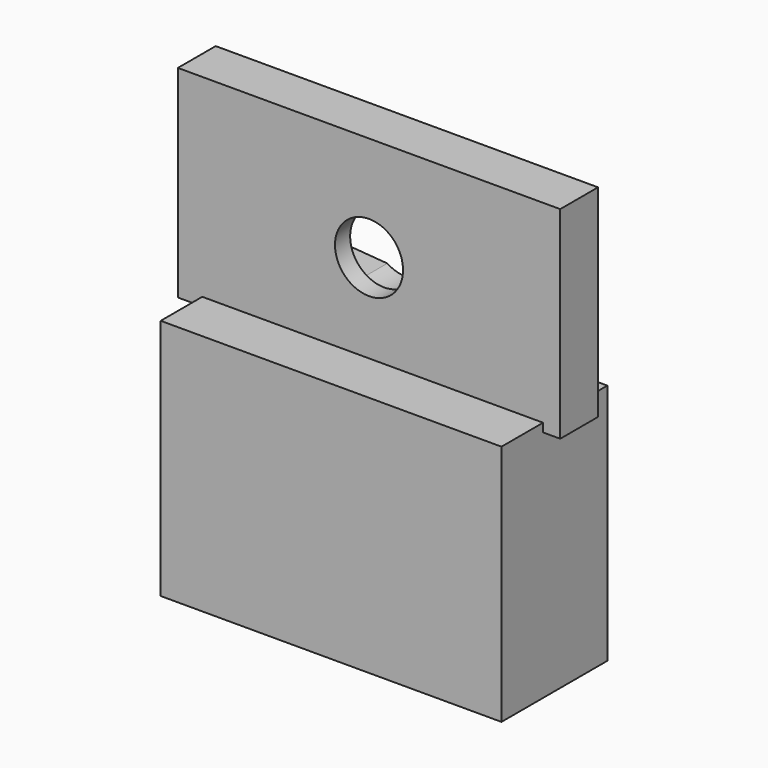
from build123d import *

# Parameters (mm, degrees)
CYLINDER023_R               = 3.6
CYLINDER023_DEPTH           = 8
CYLINDER023_ROLL_ANGLE      = 89.941329
CYLINDER023_PITCH_ANGLE     = 3.606623
CYLINDER023_PLACEMENT_ANGLE = -0.059115
PAD031_DEPTH                = 3
SKETCH032_W                 = 40.456886
SKETCH032_H                 = 21.390591
PAD032_DEPTH                = 5
CYLINDER024_R               = 1.1
CYLINDER024_DEPTH           = 10
CYLINDER025_R               = 1.1
CYLINDER025_DEPTH           = 10
SKETCH035_W                 = 23.3
SKETCH035_H                 = 12.5
PAD035_DEPTH                = 19.5
SKETCH033_W                 = 32.5
SKETCH033_H                 = 12.5
PAD034_DEPTH                = 4.5
SKETCH034_W                 = 36.061928
SKETCH034_H                 = 25.639376
PAD033_DEPTH                = 14
CUT030_PLACEMENT_ANGLE      = 90


with BuildPart() as cylinder023:
    # Cylinder023 → Cylinder023 (new body)
    with BuildSketch(Plane.XY):
        Circle(CYLINDER023_R)
    extrude(amount=CYLINDER023_DEPTH)


with BuildPart() as cylinder023_1:
    # Cylinder023 roll: moved
    add(cylinder023.part.rotate(Axis((0, 0, 0), (1, 0, 0)), CYLINDER023_ROLL_ANGLE))


with BuildPart() as cylinder023_2:
    # Cylinder023 pitch: moved
    add(cylinder023_1.part.rotate(Axis((0, 0, 0), (0, 1, 0)), CYLINDER023_PITCH_ANGLE))


with BuildPart() as cylinder023_3:
    # Cylinder023 placement: moved
    add(cylinder023_2.part.moved(Location((21, 34, 6.3))).rotate(Axis((21, 34, 6.3), (0, 0, 1)), CYLINDER023_PLACEMENT_ANGLE))


with BuildPart() as obj1:
    # Sketch031 → Pad031 (new body)
    with BuildSketch(Plane.XZ):
        with BuildLine():
            ThreePointArc((-18.00002, 2), (-20, 0), (-18.00002, -2))
            Line((-18.00002, -2), (-2.073587, -3.25))
            ThreePointArc((-2.073587, -3.25), (0, -3.854383), (2.073587, -3.25))
            Line((2.073587, -3.25), (18.00002, -2))
            ThreePointArc((18.00002, -2), (20, 0), (18.00002, 2))
            Line((2.073587, 3.25), (18.00002, 2))
            ThreePointArc((2.073587, 3.25), (0, 3.862152), (-2.073587, 3.25))
            Line((-18.00002, 2), (-2.073587, 3.25))
        make_face()
    extrude(amount=PAD031_DEPTH)


with BuildPart() as obj1_1:
    # Body034 placement: moved
    add(obj1.part.moved(Location((21, 35, 6.3))))

    # Fusion026: union Cylinder023
    add(cylinder023_3.part)


with BuildPart() as obj1_2:
    # Fusion026 placement: moved
    add(obj1_1.part.moved(Location((-21, -35, 4))))


with BuildPart() as cut027:
    # Sketch032 → Pad032 (new body)
    with BuildSketch(Plane.XZ):
        with Locations((0, 10.695296)):
            Rectangle(SKETCH032_W, SKETCH032_H)
    extrude(amount=PAD032_DEPTH)

    # Cut027: cut obj1
    add(obj1_2.part, mode=Mode.SUBTRACT)


with BuildPart() as cylinder024:
    # Cylinder024 → Cylinder024 (new body)
    with BuildSketch(Plane(origin=(30, 22, 6), x_dir=(1, 0, 0), z_dir=(0, -1, 0))):
        Circle(CYLINDER024_R)
    extrude(amount=CYLINDER024_DEPTH)


with BuildPart() as obj2:
    # Cylinder025 → Cylinder025 (new body)
    with BuildSketch(Plane(origin=(2.2, 22, 6), x_dir=(1, 0, 0), z_dir=(0, -1, 0))):
        Circle(CYLINDER025_R)
    extrude(amount=CYLINDER025_DEPTH)

    # Fusion027: union Cylinder024
    add(cylinder024.part)


with BuildPart() as cortecuerpo005:
    # Sketch035 → Pad035 (new body)
    with BuildSketch(Plane.XZ):
        with Locations((16.4, 6.25)):
            Rectangle(SKETCH035_W, SKETCH035_H)
    extrude(amount=PAD035_DEPTH)


with BuildPart() as cortecuerpo005_1:
    # Body038 placement: moved
    add(cortecuerpo005.part.moved(Location((0, 19, 0))))


with BuildPart() as cortetornillos005:
    # Sketch033 → Pad034 (new body)
    with BuildSketch(Plane.XZ):
        with Locations((16.25, 6.25)):
            Rectangle(SKETCH033_W, SKETCH033_H)
    extrude(amount=PAD034_DEPTH)


with BuildPart() as cortetornillos005_1:
    # Body037 placement: moved
    add(cortetornillos005.part.moved(Location((0, 23, 0))))


with BuildPart() as fusion028:
    # Sketch034 → Pad033 (new body)
    with BuildSketch(Plane.XY):
        with Locations((15.881367, 9.413649)):
            Rectangle(SKETCH034_W, SKETCH034_H)
    extrude(amount=PAD033_DEPTH)


with BuildPart() as fusion028_1:
    # Body036 placement: moved
    add(fusion028.part.moved(Location((0, 0, -1))))

    # Cut028: cut CorteTornillos005
    add(cortetornillos005_1.part, mode=Mode.SUBTRACT)

    # Cut029: cut CorteCuerpo005
    add(cortecuerpo005_1.part, mode=Mode.SUBTRACT)

    # Cut030: cut obj2
    add(obj2.part, mode=Mode.SUBTRACT)


with BuildPart() as fusion028_2:
    # Cut030 placement: moved
    add(fusion028_1.part.moved(Location((-15.5, -9.5, -2.5))).rotate(Axis((-15.5, -9.5, -2.5), (-1, 0, 0)), CUT030_PLACEMENT_ANGLE))

    # Fusion028: union Cut027
    add(cut027.part)


solid = fusion028_2.part
